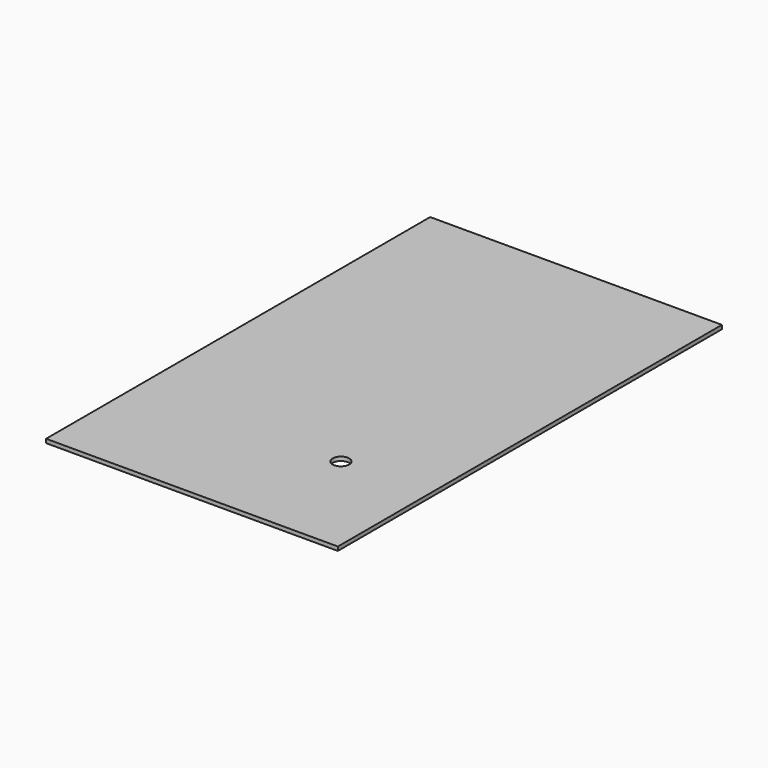
from build123d import *

# Parameters (mm, degrees)
SKETCH_W      = 447.675
SKETCH_H      = 736.6
SKETCH_R      = 12.7
EXTRUDE_DEPTH = 5.9944


with BuildPart() as part:
    # Sketch → Extrude (new body)
    with BuildSketch(Plane.XY):
        with Locations((102.078409, -115.717762)):
            Rectangle(SKETCH_W, SKETCH_H)
        with Locations((190.965709, -309.392762)):
            Circle(SKETCH_R, mode=Mode.SUBTRACT)
    extrude(amount=EXTRUDE_DEPTH)


solid = part.part
